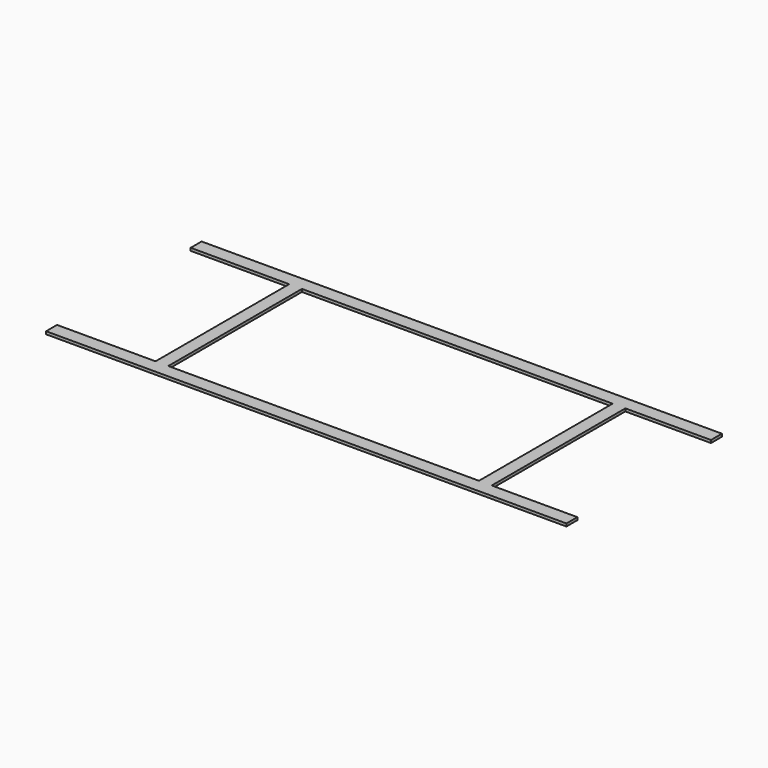
from build123d import *

# Parameters (mm, degrees)
F0_W     = 1135.422638
F0_H     = 610.469668
F1_DEPTH = 10


with BuildPart() as f1:
    # F0 (on Top) → F1 (new body)
    with BuildSketch(Plane.XY):
        Polygon((614.296978, 355.234834), (-614.296978, 355.234834), (-974.371552, 355.234834), (-974.371552, 305.234834), (-614.296978, 305.234834), (-614.296978, -305.234834), (-974.371552, -305.234834), (-974.371552, -355.234834), (-614.296978, -355.234834), (614.296978, -355.234834), (927.263439, -355.234834), (927.263439, -305.234834), (614.296978, -305.234834), (614.296978, 305.234834), (927.263439, 305.234834), (927.263439, 355.234834), align=None)
        Rectangle(F0_W, F0_H, mode=Mode.SUBTRACT)
    extrude(amount=F1_DEPTH)


solid = f1.part
